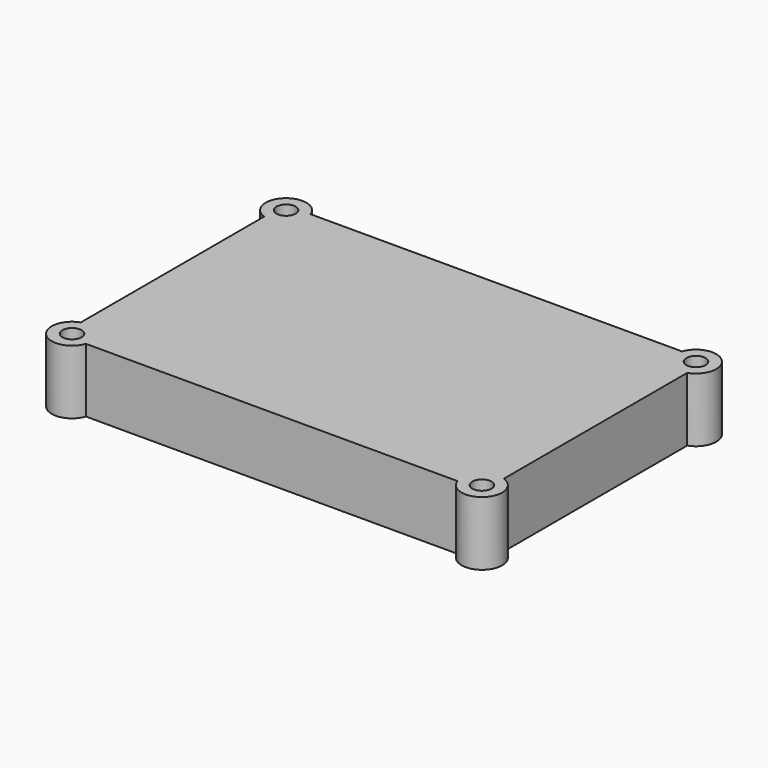
from build123d import *

# Parameters (mm, degrees)
F0_R     = 1.35
F1_DEPTH = 9
F2_W     = 8.35
F2_H     = 19.2
F3_DEPTH = 8


with BuildPart() as f1:
    # F0 (on Top) → F1 (new body)
    with BuildSketch(Plane.XY):
        with BuildLine():
            Line((26.104286, 19.725), (-26.104286, 19.725))
            ThreePointArc((-26.104286, 19.725), (-30.815254, 20.815254), (-29.725, 16.104286))
            Line((-29.725, 16.104286), (-29.725, -16.104286))
            ThreePointArc((-29.725, -16.104286), (-30.815254, -20.815254), (-26.104286, -19.725))
            Line((-26.104286, -19.725), (26.104286, -19.725))
            ThreePointArc((26.104286, -19.725), (30.815254, -20.815254), (29.725, -16.104286))
            Line((29.725, -16.104286), (29.725, 16.104286))
            ThreePointArc((29.725, 16.104286), (30.815254, 20.815254), (26.104286, 19.725))
        make_face()
        with Locations((-28.8, -18.8)):
            Circle(F0_R, mode=Mode.SUBTRACT)
        with Locations((28.8, -18.8)):
            Circle(F0_R, mode=Mode.SUBTRACT)
        with Locations((-28.8, 18.8)):
            Circle(F0_R, mode=Mode.SUBTRACT)
        with Locations((28.8, 18.8)):
            Circle(F0_R, mode=Mode.SUBTRACT)
    extrude(amount=F1_DEPTH)

    # F2 (on face) → F3 (cut)
    with BuildSketch(Plane(origin=(0, 0, 0), x_dir=(1, 0, 0), z_dir=(0, 0, -1))):
        with Locations((-21.525, 0)):
            Rectangle(F2_W, F2_H)
    extrude(amount=-F3_DEPTH, mode=Mode.SUBTRACT)


solid = f1.part
